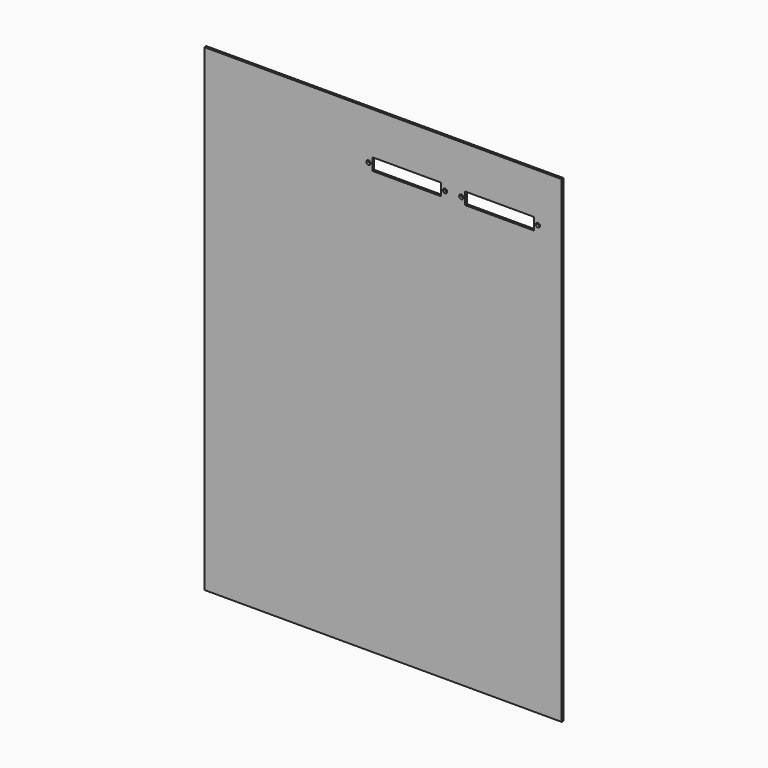
from build123d import *

# Parameters (mm, degrees)
F0_W     = 296
F0_H     = 396
F0_R     = 1.75
F0_W_2   = 57
F0_H_2   = 10
F1_DEPTH = 2


with BuildPart() as f1:
    # F0 (on Front) → F1 (new body)
    with BuildSketch(Plane.XZ):
        Rectangle(F0_W, F0_H)
        with Locations((-12.140578, 158)):
            Circle(F0_R, mode=Mode.SUBTRACT)
        with Locations((19.609422, 158)):
            Rectangle(F0_W_2, F0_H_2, mode=Mode.SUBTRACT)
        with Locations((51.359422, 158)):
            Circle(F0_R, mode=Mode.SUBTRACT)
        with Locations((64.859422, 158)):
            Circle(F0_R, mode=Mode.SUBTRACT)
        with Locations((96.609422, 158)):
            Rectangle(F0_W_2, F0_H_2, mode=Mode.SUBTRACT)
        with Locations((128.359422, 158)):
            Circle(F0_R, mode=Mode.SUBTRACT)
    extrude(amount=F1_DEPTH)


solid = f1.part
